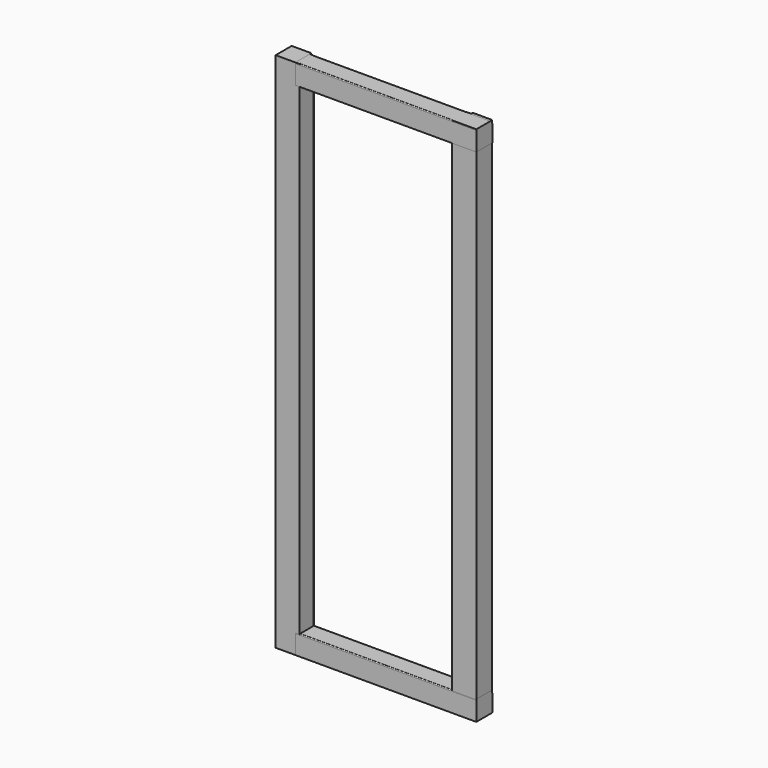
from build123d import *

# Parameters (mm, degrees)
F2_DEPTH = 1300
F5_DEPTH = 451


with BuildPart() as f2:
    # F0 (on Top) → F2 (new body)
    with BuildSketch(Plane.XY):
        with BuildLine():
            Line((-60, 43), (-60, 0))
            Line((-60, 0), (0, 0))
            Line((0, 0), (0, 48))
            ThreePointArc((0, 48), (-0.585786, 49.414214), (-2, 50))
            Line((-2, 50), (-47, 50))
            ThreePointArc((-47, 50), (-48.414214, 49.414214), (-49, 48))
            Line((-49, 48), (-49, 47))
            ThreePointArc((-49, 47), (-49.585786, 45.585786), (-51, 45))
            Line((-51, 45), (-58, 45))
            ThreePointArc((-58, 45), (-59.414214, 44.414214), (-60, 43))
        make_face()
    extrude(amount=F2_DEPTH)


with BuildPart() as f4_1:
    # F4: instance of F2
    add(f2.part.mirror(Plane.YZ.offset(-250)))


with BuildPart() as f5:
    # F1 (on Right) → F5 (new body)
    with BuildSketch(Plane.YZ):
        with BuildLine():
            ThreePointArc((2, 50), (0.323892, 49.222571), (0, 47.403553))
            Line((0, 47.403553), (0, 0))
            Line((0, 0), (50, 0))
            Line((50, 0), (50, 41.611212))
            ThreePointArc((50, 41.611212), (49.907506, 42.212394), (49.63858, 42.75797))
            Line((49.63858, 42.75797), (45.167396, 49.146758))
            ThreePointArc((45.167396, 49.146758), (44.452526, 49.77391), (43.528815, 50))
            Line((43.528815, 50), (2, 50))
        make_face()
    extrude(amount=-F5_DEPTH)


with BuildPart() as f6_1:
    # F6: copy of F5
    add(f5.part.moved(Location((0, 0, 1250))))


solid = Compound([f2.part, f4_1.part, f5.part, f6_1.part])
